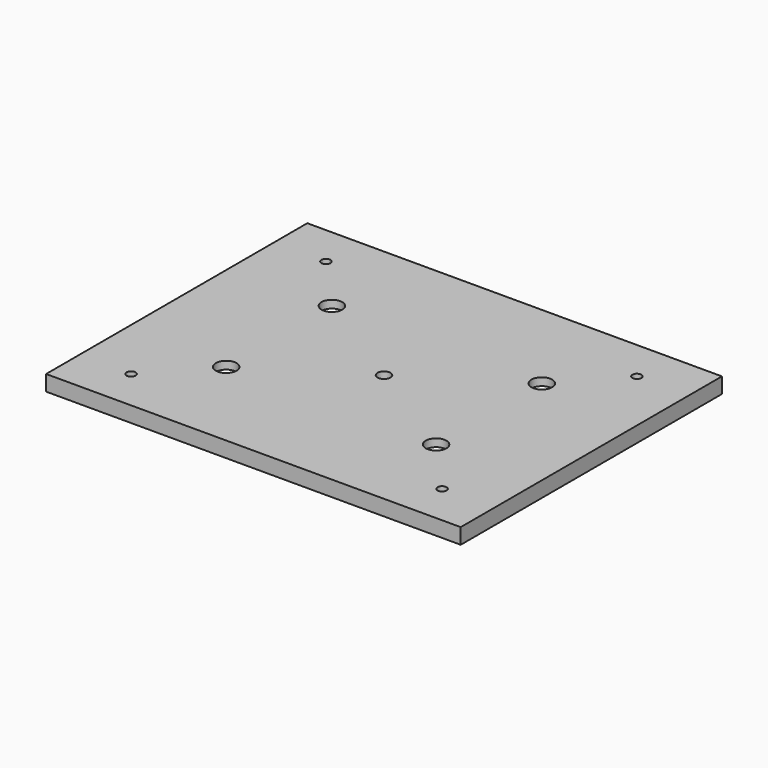
from build123d import *

# Parameters (mm, degrees)
F0_W     = 160
F0_H     = 126
F0_R     = 1.75
F0_W_2   = 101
F0_H_2   = 71
F0_R_2   = 4
F0_R_3   = 2.5
F1_DEPTH = 6
F2_DEPTH = 3


with BuildPart() as f1:
    # F0 (on Top) → F1 (new body)
    with BuildSketch(Plane.XY):
        Rectangle(F0_W, F0_H)
        with Locations((-60, -47)):
            Circle(F0_R, mode=Mode.SUBTRACT)
        with Locations((60, -47)):
            Circle(F0_R, mode=Mode.SUBTRACT)
        with Locations((-60, 47)):
            Circle(F0_R, mode=Mode.SUBTRACT)
        Rectangle(F0_W_2, F0_H_2, mode=Mode.SUBTRACT)
        with Locations((60, 47)):
            Circle(F0_R, mode=Mode.SUBTRACT)
        Rectangle(F0_W_2, F0_H_2)
        with Locations((-40.5, -25.5)):
            Circle(F0_R_2, mode=Mode.SUBTRACT)
        with Locations((40.5, -25.5)):
            Circle(F0_R_2, mode=Mode.SUBTRACT)
        with Locations((-40.5, 25.5)):
            Circle(F0_R_2, mode=Mode.SUBTRACT)
        Circle(F0_R_3, mode=Mode.SUBTRACT)
        with Locations((40.5, 25.5)):
            Circle(F0_R_2, mode=Mode.SUBTRACT)
    extrude(amount=F1_DEPTH)

    # F0 (on Top) → F2 (cut)
    with BuildSketch(Plane.XY):
        Rectangle(F0_W_2, F0_H_2)
        with Locations((-40.5, -25.5)):
            Circle(F0_R_2, mode=Mode.SUBTRACT)
        with Locations((40.5, -25.5)):
            Circle(F0_R_2, mode=Mode.SUBTRACT)
        with Locations((-40.5, 25.5)):
            Circle(F0_R_2, mode=Mode.SUBTRACT)
        Circle(F0_R_3, mode=Mode.SUBTRACT)
        with Locations((40.5, 25.5)):
            Circle(F0_R_2, mode=Mode.SUBTRACT)
    extrude(amount=F2_DEPTH, mode=Mode.SUBTRACT)


solid = f1.part
